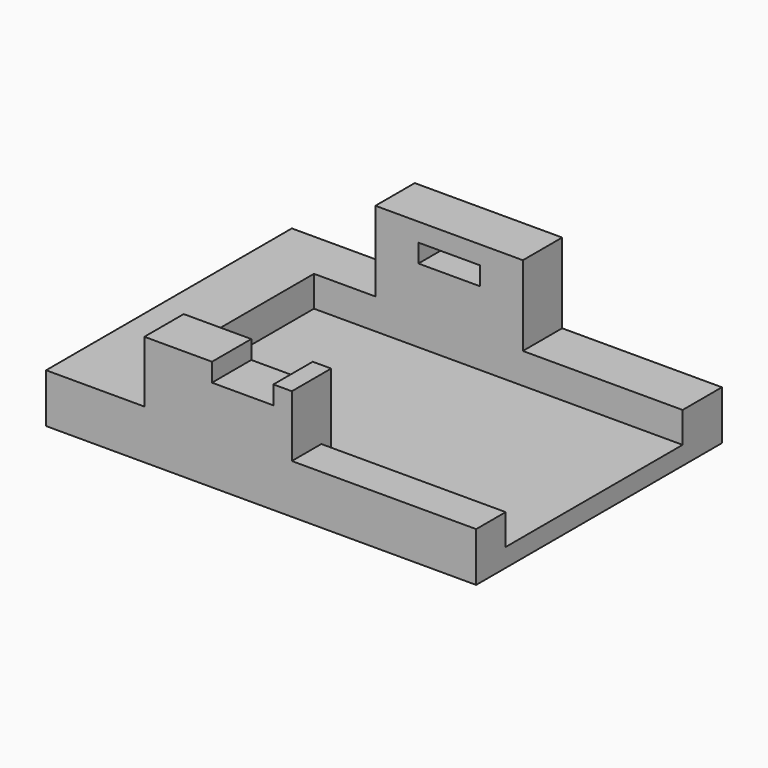
from build123d import *

# Parameters (mm, degrees)
F0_W      = 350
F0_H      = 250
F1_DEPTH  = 40
F2_W      = 170
F2_H      = 25
F3_DEPTH  = 300
F4_W      = 150
F4_H      = 10
F5_DEPTH  = 25
F6_W      = 120
F6_H      = 40
F7_DEPTH  = 50
F8_W      = 120
F8_H      = 40
F9_DEPTH  = 65
F10_W     = 50
F10_H     = 15
F11_DEPTH = 250.001


with BuildPart() as f1:
    # F0 (on Top) → F1 (new body)
    with BuildSketch(Plane.XY):
        Rectangle(F0_W, F0_H)
    extrude(amount=F1_DEPTH)

    # F2 (on face) → F3 (cut)
    with BuildSketch(Plane.YZ.offset(175)):
        with Locations((0, 27.5)):
            Rectangle(F2_W, F2_H)
        with Locations((0, 27.5)):
            Rectangle(F2_W, F2_H)
    extrude(amount=-F3_DEPTH, mode=Mode.SUBTRACT)

    # F4 (on face) → F5 (cut)
    with BuildSketch(Plane.XY.offset(40)):
        with Locations((100, -90)):
            Rectangle(F4_W, F4_H)
    extrude(amount=-F5_DEPTH, mode=Mode.SUBTRACT)

    # F6 (on face) → F7 (join)
    with BuildSketch(Plane.XY.offset(40)):
        with Locations((-35, -105)):
            Rectangle(F6_W, F6_H)
    extrude(amount=F7_DEPTH)

    # F8 (on face) → F9 (join)
    with BuildSketch(Plane.XY.offset(40)):
        with Locations((-15, 105)):
            Rectangle(F8_W, F8_H)
    extrude(amount=F9_DEPTH)

    # F10 (on face) → F11 (cut, through all)
    with BuildSketch(Plane.XZ.offset(125)):
        with Locations((-15, 82.5)):
            Rectangle(F10_W, F10_H)
    extrude(amount=-F11_DEPTH, mode=Mode.SUBTRACT)


solid = f1.part
